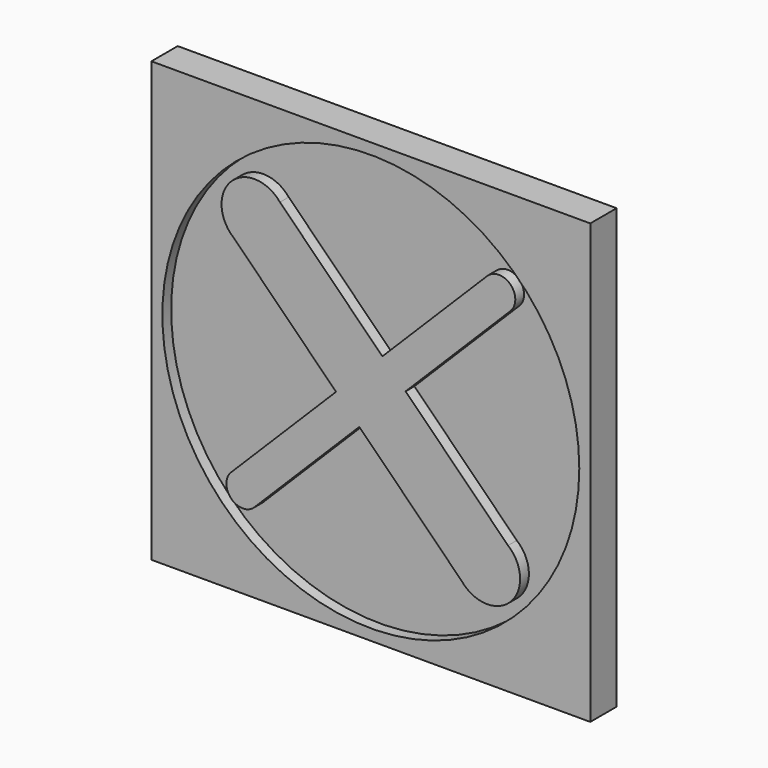
from build123d import *

# Parameters (mm, degrees)
F0_W     = 40
F0_H     = 40
F1_DEPTH = 3
F2_R     = 4.9
F2_R_2   = 3
F3_DEPTH = 5
F4_R     = 19
F5_DEPTH = 1


with BuildPart() as f1:
    # F0 (on Front) → F1 (new body)
    with BuildSketch(Plane.XZ):
        Rectangle(F0_W, F0_H)
    extrude(amount=F1_DEPTH)

    # F2 (on face) → F3 (join)
    with BuildSketch(Plane(origin=(0, 0, 0), x_dir=(-1, 0, 0), z_dir=(0, 1, 0))):
        Circle(F2_R)
        Circle(F2_R_2, mode=Mode.SUBTRACT)
    extrude(amount=F3_DEPTH)

    # F4 (on face) → F5 (cut)
    with BuildSketch(Plane.XZ.offset(3)):
        Circle(F4_R)
        with BuildLine():
            ThreePointArc((-12.505157, 8.283783), (-12.727922, 12.727922), (-8.283783, 12.505157))
            Line((-8.283783, 12.505157), (1.051123, 3.170251))
            Line((1.051123, 3.170251), (10.559486, 12.678614))
            ThreePointArc((10.559486, 12.678614), (12.727922, 12.727922), (12.678614, 10.559486))
            Line((12.678614, 10.559486), (3.170251, 1.051123))
            Line((3.170251, 1.051123), (12.505157, -8.283783))
            ThreePointArc((12.505157, -8.283783), (12.727922, -12.727922), (8.283783, -12.505157))
            Line((8.283783, -12.505157), (-1.051123, -3.170251))
            Line((-1.051123, -3.170251), (-10.559486, -12.678614))
            ThreePointArc((-10.559486, -12.678614), (-12.727922, -12.727922), (-12.678614, -10.559486))
            Line((-12.678614, -10.559486), (-3.170251, -1.051123))
            Line((-3.170251, -1.051123), (-12.505157, 8.283783))
        make_face(mode=Mode.SUBTRACT)
    extrude(amount=-F5_DEPTH, mode=Mode.SUBTRACT)


solid = f1.part
